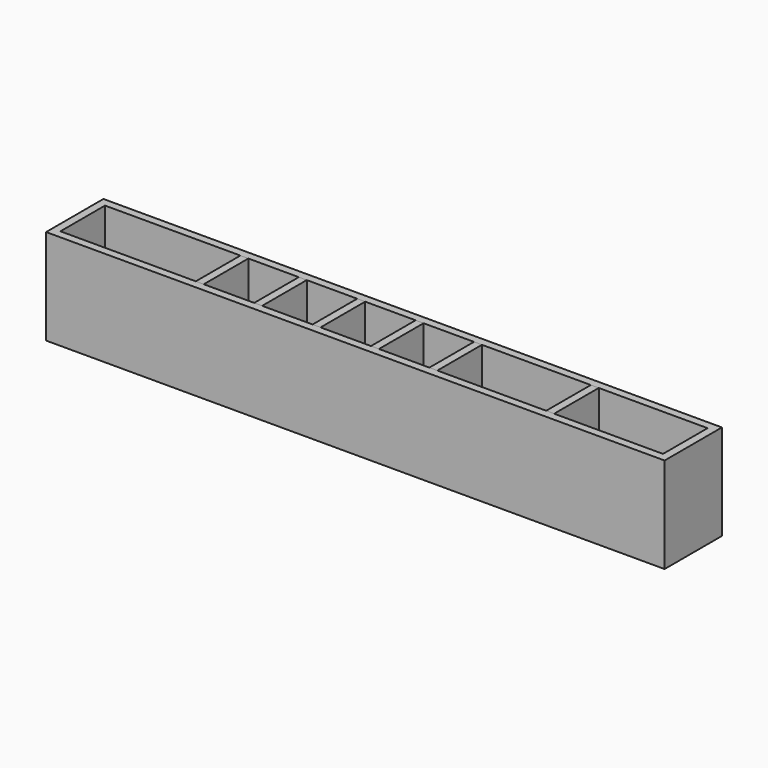
from build123d import *

# Parameters (mm, degrees)
SKETCH_W         = 72.5
SKETCH_H         = 13.5
SKETCH_W_2       = 69.5
SKETCH_H_2       = 10.5
EXTRUDE_DEPTH    = 18
SKETCH001_W      = 28.5
SKETCH001_H      = 13.5
SKETCH001_W_2    = 25.5
SKETCH001_H_2    = 10.5
EXTRUDE001_DEPTH = 18
SKETCH002_W      = 39.5
SKETCH002_H      = 13.5
SKETCH002_W_2    = 36.5
SKETCH002_H_2    = 10.5
EXTRUDE002_DEPTH = 18
SKETCH003_W      = 50.5
SKETCH003_H      = 13.5
SKETCH003_W_2    = 47.5
SKETCH003_H_2    = 10.5
EXTRUDE003_DEPTH = 18
SKETCH004_W      = 61.5
SKETCH004_H      = 13.5
SKETCH004_W_2    = 58.5
SKETCH004_H_2    = 10.5
EXTRUDE004_DEPTH = 18
SKETCH005_W      = 94.5
SKETCH005_H      = 13.5
SKETCH005_W_2    = 91.5
SKETCH005_H_2    = 10.5
EXTRUDE005_DEPTH = 18
SKETCH006_W      = 116.5
SKETCH006_H      = 13.5
SKETCH006_W_2    = 113.5
SKETCH006_H_2    = 10.5
EXTRUDE006_DEPTH = 18


with BuildPart() as f_12c1r:
    # Sketch → Extrude (new body)
    with BuildSketch(Plane.XY):
        with Locations((34.75, 5.25)):
            Rectangle(SKETCH_W, SKETCH_H)
        with Locations((34.75, 5.25)):
            Rectangle(SKETCH_W_2, SKETCH_H_2, mode=Mode.SUBTRACT)
    extrude(amount=EXTRUDE_DEPTH)


with BuildPart() as f_4c1r:
    # Sketch001 → Extrude001 (new body)
    with BuildSketch(Plane.XY):
        with Locations((12.75, 5.25)):
            Rectangle(SKETCH001_W, SKETCH001_H)
        with Locations((12.75, 5.25)):
            Rectangle(SKETCH001_W_2, SKETCH001_H_2, mode=Mode.SUBTRACT)
    extrude(amount=EXTRUDE001_DEPTH)


with BuildPart() as f_6c1r:
    # Sketch002 → Extrude002 (new body)
    with BuildSketch(Plane.XY):
        with Locations((18.25, 5.25)):
            Rectangle(SKETCH002_W, SKETCH002_H)
        with Locations((18.25, 5.25)):
            Rectangle(SKETCH002_W_2, SKETCH002_H_2, mode=Mode.SUBTRACT)
    extrude(amount=EXTRUDE002_DEPTH)


with BuildPart() as f_8c1r:
    # Sketch003 → Extrude003 (new body)
    with BuildSketch(Plane.XY):
        with Locations((23.75, 5.25)):
            Rectangle(SKETCH003_W, SKETCH003_H)
        with Locations((23.75, 5.25)):
            Rectangle(SKETCH003_W_2, SKETCH003_H_2, mode=Mode.SUBTRACT)
    extrude(amount=EXTRUDE003_DEPTH)


with BuildPart() as f_10c1r:
    # Sketch004 → Extrude004 (new body)
    with BuildSketch(Plane.XY):
        with Locations((29.25, 5.25)):
            Rectangle(SKETCH004_W, SKETCH004_H)
        with Locations((29.25, 5.25)):
            Rectangle(SKETCH004_W_2, SKETCH004_H_2, mode=Mode.SUBTRACT)
    extrude(amount=EXTRUDE004_DEPTH)


with BuildPart() as f_16c1r:
    # Sketch005 → Extrude005 (new body)
    with BuildSketch(Plane.XY):
        with Locations((45.75, 5.25)):
            Rectangle(SKETCH005_W, SKETCH005_H)
        with Locations((45.75, 5.25)):
            Rectangle(SKETCH005_W_2, SKETCH005_H_2, mode=Mode.SUBTRACT)
    extrude(amount=EXTRUDE005_DEPTH)


with BuildPart() as f_20c1r:
    # Sketch006 → Extrude006 (new body)
    with BuildSketch(Plane.XY):
        with Locations((56.75, 5.25)):
            Rectangle(SKETCH006_W, SKETCH006_H)
        with Locations((56.75, 5.25)):
            Rectangle(SKETCH006_W_2, SKETCH006_H_2, mode=Mode.SUBTRACT)
    extrude(amount=EXTRUDE006_DEPTH)


solid = Compound([f_12c1r.part, f_4c1r.part, f_6c1r.part, f_8c1r.part, f_10c1r.part, f_16c1r.part, f_20c1r.part])
